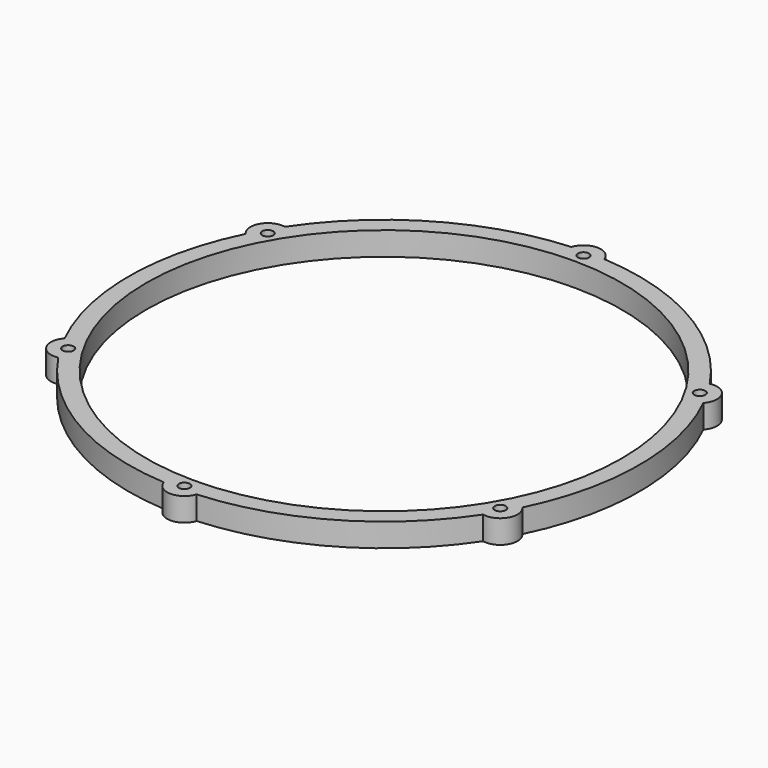
from build123d import *

# Parameters (mm, degrees)
F0_R     = 0.942302
F0_R_2   = 40.5
F1_DEPTH = 4


with BuildPart() as f1:
    # F0 (on Top) → F1 (new body)
    with BuildSketch(Plane.XY):
        with BuildLine():
            ThreePointArc((2.79807, 43.409916), (0, 45.442302), (-2.79807, 43.409916))
            ThreePointArc((-2.79807, 43.409916), (-21.75, 37.672105), (-36.195055, 24.128158))
            ThreePointArc((-36.195055, 24.128158), (-39.354188, 22.721151), (-38.993125, 19.281758))
            ThreePointArc((-38.993125, 19.281758), (-43.5, 0), (-38.993125, -19.281758))
            ThreePointArc((-38.993125, -19.281758), (-39.354188, -22.721151), (-36.195055, -24.128158))
            ThreePointArc((-36.195055, -24.128158), (-21.75, -37.672105), (-2.79807, -43.409916))
            ThreePointArc((-2.79807, -43.409916), (0, -45.442302), (2.79807, -43.409916))
            ThreePointArc((2.79807, -43.409916), (21.75, -37.672105), (36.195055, -24.128158))
            ThreePointArc((36.195055, -24.128158), (39.354188, -22.721151), (38.993125, -19.281758))
            ThreePointArc((38.993125, -19.281758), (43.5, 0), (38.993125, 19.281758))
            ThreePointArc((38.993125, 19.281758), (39.354188, 22.721151), (36.195055, 24.128158))
            ThreePointArc((36.195055, 24.128158), (21.75, 37.672105), (2.79807, 43.409916))
        make_face()
        with Locations((-36.80608, -21.25)):
            Circle(F0_R, mode=Mode.SUBTRACT)
        with Locations((0, -42.5)):
            Circle(F0_R, mode=Mode.SUBTRACT)
        with Locations((36.80608, -21.25)):
            Circle(F0_R, mode=Mode.SUBTRACT)
        with Locations((-36.80608, 21.25)):
            Circle(F0_R, mode=Mode.SUBTRACT)
        Circle(F0_R_2, mode=Mode.SUBTRACT)
        with Locations((36.80608, 21.25)):
            Circle(F0_R, mode=Mode.SUBTRACT)
        with Locations((0, 42.5)):
            Circle(F0_R, mode=Mode.SUBTRACT)
    extrude(amount=F1_DEPTH)


solid = f1.part
